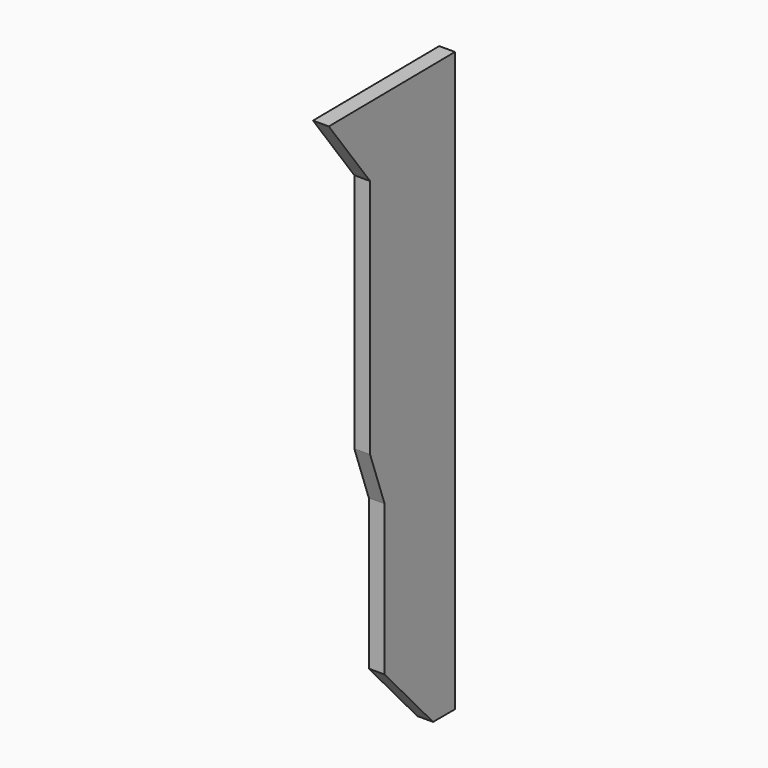
from build123d import *

# Parameters (mm, degrees)
F1_DEPTH = 3


with BuildPart() as f1:
    # F0 (on Right) → F1 (new body)
    with BuildSketch(Plane.YZ):
        Polygon((6.442123, -33.517301), (11.644737, -33.517301), (11.644737, 76.54684), (-18.350801, 76.266825), (-8.524823, 63.121677), (-8.524823, 17.32783), (-5.085061, 7.696345), (-5.085061, -4.146606), (-5.085061, -20.884767), align=None)
    extrude(amount=F1_DEPTH)


solid = f1.part
